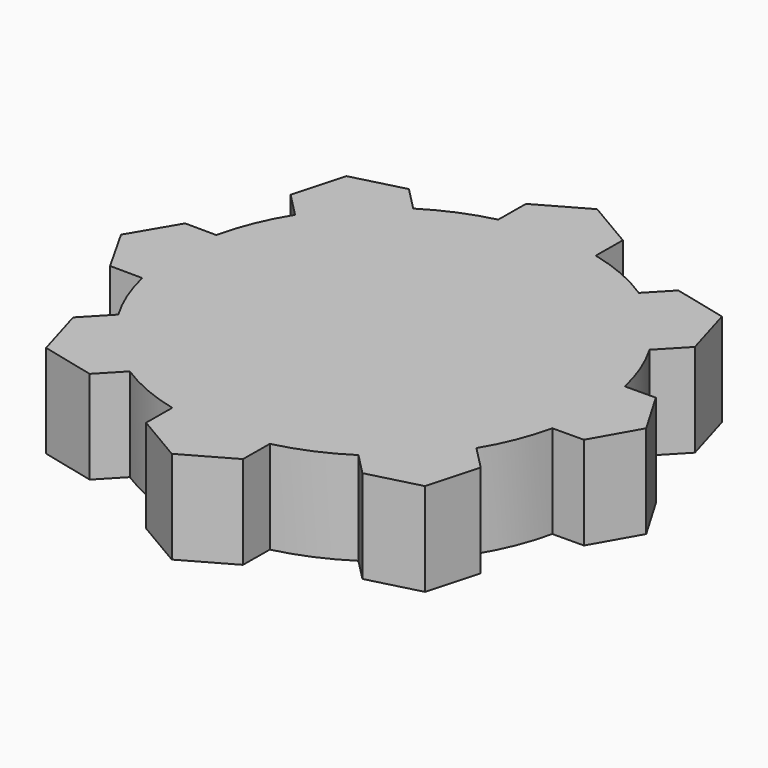
from build123d import *

# Parameters (mm, degrees)
F1_DEPTH = 12.7


with BuildPart() as f1:
    # F0 (on Top) → F1 (new body)
    with BuildSketch(Plane.XY):
        with BuildLine():
            Line((-18.408266, -27.174663), (-15.429892, -24.050968))
            ThreePointArc((-15.429892, -24.050968), (-20.551556, -19.853568), (-24.569553, -14.589986))
            Line((-24.569553, -14.589986), (-27.920764, -18.104709))
            Line((-27.920764, -18.104709), (-25.782785, -25.385708))
            Line((-25.782785, -25.385708), (-18.408266, -27.174663))
        make_face()
        with BuildLine():
            ThreePointArc((-27.84543, -6.415814), (-28.574869, -0.086513), (-27.883768, 6.247089))
            Line((-27.883768, 6.247089), (-32.150432, 6.284476))
            Line((-32.150432, 6.284476), (-35.860993, -0.014294))
            Line((-35.860993, -0.014294), (-32.26138, -6.377119))
            Line((-32.26138, -6.377119), (-27.84543, -6.415814))
        make_face()
        with BuildLine():
            ThreePointArc((-24.238326, 15.133875), (-20.282528, 20.12833), (-15.318407, 24.122128))
            Line((-15.318407, 24.122128), (-18.488281, 27.348045))
            Line((-18.488281, 27.348045), (-25.565947, 25.517906))
            Line((-25.565947, 25.517906), (-27.519832, 18.473398))
            Line((-27.519832, 18.473398), (-24.238326, 15.133875))
        make_face()
        with BuildLine():
            ThreePointArc((-6.65692, 27.788776), (-0.006658, 28.574999), (6.643969, 27.791875))
            Line((6.643969, 27.791875), (6.681662, 32.35949))
            Line((6.681662, 32.35949), (0.063367, 36.253734))
            Line((0.063367, 36.253734), (-6.618295, 32.469244))
            Line((-6.618295, 32.469244), (-6.65692, 27.788776))
        make_face()
        with BuildLine():
            ThreePointArc((15.594872, 23.944323), (20.689003, 19.710296), (24.671388, 14.417116))
            Line((24.671388, 14.417116), (28.038049, 17.948044))
            Line((28.038049, 17.948044), (25.900071, 25.229042))
            Line((25.900071, 25.229042), (18.525552, 27.017998))
            Line((18.525552, 27.017998), (15.594872, 23.944323))
        make_face()
        with BuildLine():
            ThreePointArc((27.899327, 6.177229), (28.40558, 3.107036), (28.575, 0))
            ThreePointArc((28.575, 0), (28.404982, -3.112492), (27.896952, -6.187946))
            Line((27.896952, -6.187946), (32.193232, -6.153934))
            Line((32.193232, -6.153934), (35.713579, 0.056514))
            Line((35.713579, 0.056514), (32.095347, 6.210447))
            Line((32.095347, 6.210447), (27.899327, 6.177229))
        make_face()
        with BuildLine():
            Line((27.615371, -18.034943), (24.440955, -14.804404))
            ThreePointArc((24.440955, -14.804404), (20.551948, -19.853162), (15.640685, -23.914422))
            Line((15.640685, -23.914422), (18.58382, -26.909591))
            Line((18.58382, -26.909591), (25.661485, -25.079451))
            Line((25.661485, -25.079451), (27.615371, -18.034943))
        make_face()
        with BuildLine():
            Line((6.618295, -32.323115), (6.655711, -27.789065))
            ThreePointArc((6.655711, -27.789065), (0.005418, -28.574999), (-6.645172, -27.791587))
            Line((-6.645172, -27.791587), (-6.681662, -32.213361))
            Line((-6.681662, -32.213361), (-0.063367, -36.107604))
            Line((-0.063367, -36.107604), (6.618295, -32.323115))
        make_face()
        with BuildLine():
            Line((24.956768, 6.153934), (27.899327, 6.177229))
            ThreePointArc((27.899327, 6.177229), (26.606277, 10.422891), (24.671388, 14.417116))
            Line((24.671388, 14.417116), (22.801509, 12.456001))
            Line((22.801509, 12.456001), (15.42699, 14.244957))
            Line((15.42699, 14.244957), (13.289012, 21.525955))
            Line((13.289012, 21.525955), (15.594872, 23.944323))
            ThreePointArc((15.594872, 23.944323), (11.28461, 26.252394), (6.643969, 27.791875))
            Line((6.643969, 27.791875), (6.618295, 24.680756))
            Line((6.618295, 24.680756), (-0.063367, 20.896266))
            Line((-0.063367, 20.896266), (-6.681662, 24.79051))
            Line((-6.681662, 24.79051), (-6.65692, 27.788776))
            ThreePointArc((-6.65692, 27.788776), (-11.139561, 26.31427), (-15.318407, 24.122128))
            Line((-15.318407, 24.122128), (-13.364501, 22.133677))
            Line((-13.364501, 22.133677), (-15.318386, 15.089169))
            Line((-15.318386, 15.089169), (-22.396052, 13.25903))
            Line((-22.396052, 13.25903), (-24.238326, 15.133875))
            ThreePointArc((-24.238326, 15.133875), (-26.437131, 10.844755), (-27.883768, 6.247089))
            Line((-27.883768, 6.247089), (-24.840257, 6.22042))
            Line((-24.840257, 6.22042), (-21.240644, -0.142405))
            Line((-21.240644, -0.142405), (-24.951205, -6.441174))
            Line((-24.951205, -6.441174), (-27.84543, -6.415814))
            ThreePointArc((-27.84543, -6.415814), (-26.52427, -10.629852), (-24.569553, -14.589986))
            Line((-24.569553, -14.589986), (-22.684223, -12.612666))
            Line((-22.684223, -12.612666), (-15.309704, -14.401622))
            Line((-15.309704, -14.401622), (-13.171726, -21.68262))
            Line((-13.171726, -21.68262), (-15.429892, -24.050968))
            ThreePointArc((-15.429892, -24.050968), (-11.194873, -26.290786), (-6.645172, -27.791587))
            Line((-6.645172, -27.791587), (-6.618295, -24.534627))
            Line((-6.618295, -24.534627), (0.063367, -20.750137))
            Line((0.063367, -20.750137), (6.681662, -24.644381))
            Line((6.681662, -24.644381), (6.655711, -27.789065))
            ThreePointArc((6.655711, -27.789065), (11.315279, -26.23919), (15.640685, -23.914422))
            Line((15.640685, -23.914422), (13.46004, -21.695223))
            Line((13.46004, -21.695223), (15.413925, -14.650715))
            Line((15.413925, -14.650715), (22.491591, -12.820575))
            Line((22.491591, -12.820575), (24.440955, -14.804404))
            ThreePointArc((24.440955, -14.804404), (26.521217, -10.637465), (27.896952, -6.187946))
            Line((27.896952, -6.187946), (25.054653, -6.210447))
            Line((25.054653, -6.210447), (21.436421, -0.056514))
            Line((21.436421, -0.056514), (24.956768, 6.153934))
        make_face()
        with BuildLine():
            ThreePointArc((-6.645172, -27.791587), (0.005418, -28.574999), (6.655711, -27.789065))
            Line((6.655711, -27.789065), (6.681662, -24.644381))
            Line((6.681662, -24.644381), (0.063367, -20.750137))
            Line((0.063367, -20.750137), (-6.618295, -24.534627))
            Line((-6.618295, -24.534627), (-6.645172, -27.791587))
        make_face()
        with BuildLine():
            ThreePointArc((-24.569553, -14.589986), (-20.551556, -19.853568), (-15.429892, -24.050968))
            Line((-15.429892, -24.050968), (-13.171726, -21.68262))
            Line((-13.171726, -21.68262), (-15.309704, -14.401622))
            Line((-15.309704, -14.401622), (-22.684223, -12.612666))
            Line((-22.684223, -12.612666), (-24.569553, -14.589986))
        make_face()
        with BuildLine():
            Line((-24.840257, 6.22042), (-27.883768, 6.247089))
            ThreePointArc((-27.883768, 6.247089), (-28.574869, -0.086513), (-27.84543, -6.415814))
            Line((-27.84543, -6.415814), (-24.951205, -6.441174))
            Line((-24.951205, -6.441174), (-21.240644, -0.142405))
            Line((-21.240644, -0.142405), (-24.840257, 6.22042))
        make_face()
        with BuildLine():
            Line((-13.364501, 22.133677), (-15.318407, 24.122128))
            ThreePointArc((-15.318407, 24.122128), (-20.282528, 20.12833), (-24.238326, 15.133875))
            Line((-24.238326, 15.133875), (-22.396052, 13.25903))
            Line((-22.396052, 13.25903), (-15.318386, 15.089169))
            Line((-15.318386, 15.089169), (-13.364501, 22.133677))
        make_face()
        with BuildLine():
            Line((6.618295, 24.680756), (6.643969, 27.791875))
            ThreePointArc((6.643969, 27.791875), (-0.006658, 28.574999), (-6.65692, 27.788776))
            Line((-6.65692, 27.788776), (-6.681662, 24.79051))
            Line((-6.681662, 24.79051), (-0.063367, 20.896266))
            Line((-0.063367, 20.896266), (6.618295, 24.680756))
        make_face()
        with BuildLine():
            Line((22.801509, 12.456001), (24.671388, 14.417116))
            ThreePointArc((24.671388, 14.417116), (20.689003, 19.710296), (15.594872, 23.944323))
            Line((15.594872, 23.944323), (13.289012, 21.525955))
            Line((13.289012, 21.525955), (15.42699, 14.244957))
            Line((15.42699, 14.244957), (22.801509, 12.456001))
        make_face()
        with BuildLine():
            ThreePointArc((27.896952, -6.187946), (28.404982, -3.112492), (28.575, 0))
            ThreePointArc((28.575, 0), (28.40558, 3.107036), (27.899327, 6.177229))
            Line((27.899327, 6.177229), (24.956768, 6.153934))
            Line((24.956768, 6.153934), (21.436421, -0.056514))
            Line((21.436421, -0.056514), (25.054653, -6.210447))
            Line((25.054653, -6.210447), (27.896952, -6.187946))
        make_face()
        with BuildLine():
            ThreePointArc((15.640685, -23.914422), (20.551948, -19.853162), (24.440955, -14.804404))
            Line((24.440955, -14.804404), (22.491591, -12.820575))
            Line((22.491591, -12.820575), (15.413925, -14.650715))
            Line((15.413925, -14.650715), (13.46004, -21.695223))
            Line((13.46004, -21.695223), (15.640685, -23.914422))
        make_face()
    extrude(amount=F1_DEPTH)


solid = f1.part
